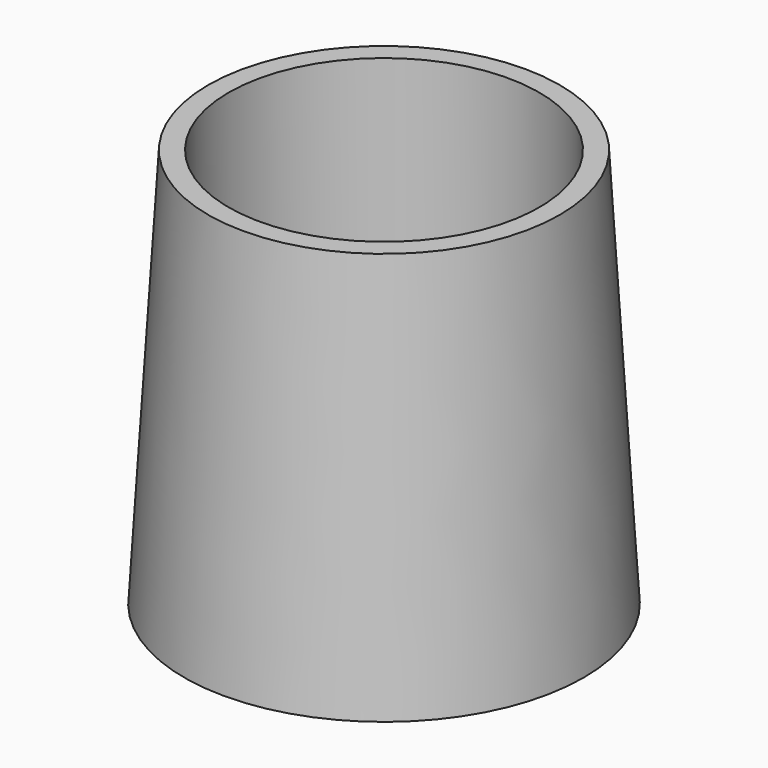
from build123d import *

# Parameters (mm, degrees)
F3_D     = 38.89248
F3_DEPTH = 100
F3_TIP   = 11.6844798042


with BuildPart() as f1:
    # F0 (on Right) → F1 (revolve)
    with BuildSketch(Plane.YZ):
        Polygon((-50.9783465572, 17.8712944157), (-53.9783465572, -32.1287055843), (-28.9783465572, -32.1287055843), (-28.9783465572, 17.8712944157), align=None)
    revolve(axis=Axis((0, -28.9783465572, -7.1287055843), (0, 0, 1)))

    # F3
    with Locations(Plane(origin=(0, 0, -32.1287055843), x_dir=(1, 0, 0), z_dir=(0, 0, -1))):
        with Locations((0, 28.9783465572)):
            Hole(F3_D / 2, depth=F3_DEPTH)
            with Locations((0, 0, -(F3_DEPTH + F3_TIP / 2))):  # 118° drill point
                Cone(0, F3_D / 2, F3_TIP, mode=Mode.SUBTRACT)


solid = f1.part
